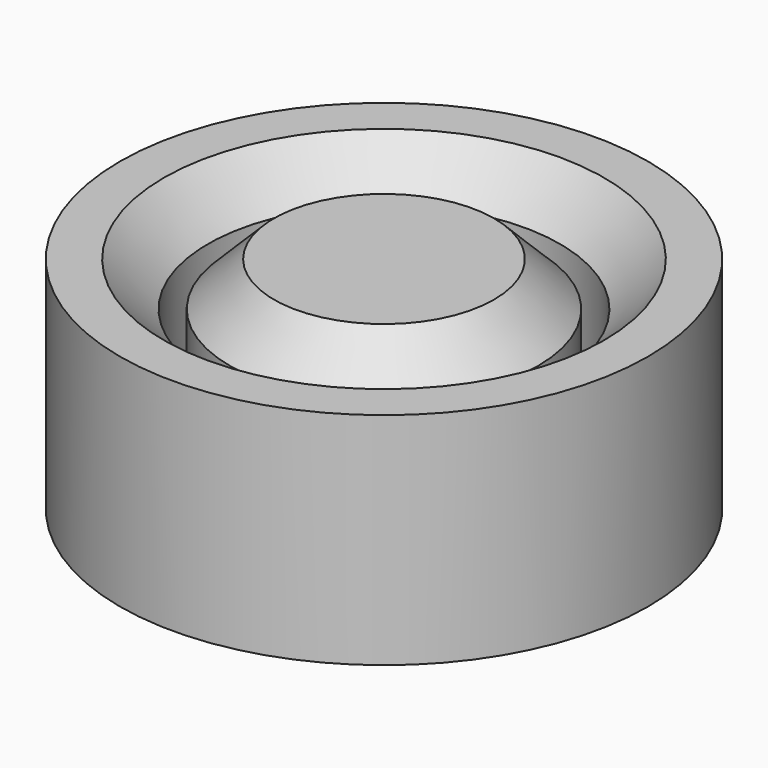
from build123d import *

# Parameters (mm, degrees)
F0_R     = 76.2
F1_DEPTH = 63.5
F2_R     = 50.8
F2_R_2   = 44.45
F3_DEPTH = 50.8
F4_SIZE  = 12.7


with BuildPart() as f1:
    # F0 (on Top) → F1 (new body)
    with BuildSketch(Plane.XY):
        Circle(F0_R)
    extrude(amount=F1_DEPTH)

    # F2 (on face) → F3 (cut)
    with BuildSketch(Plane.XY.offset(63.5)):
        Circle(F2_R)
        Circle(F2_R_2, mode=Mode.SUBTRACT)
    extrude(amount=-F3_DEPTH, mode=Mode.SUBTRACT)

    # F4
    f4_edges = [f1.edges().sort_by_distance(p)[0] for p in [
        (-50.8, 0, 63.5),
        (-44.45, 0, 63.5),
    ]]
    chamfer(f4_edges, length=F4_SIZE)


solid = f1.part
